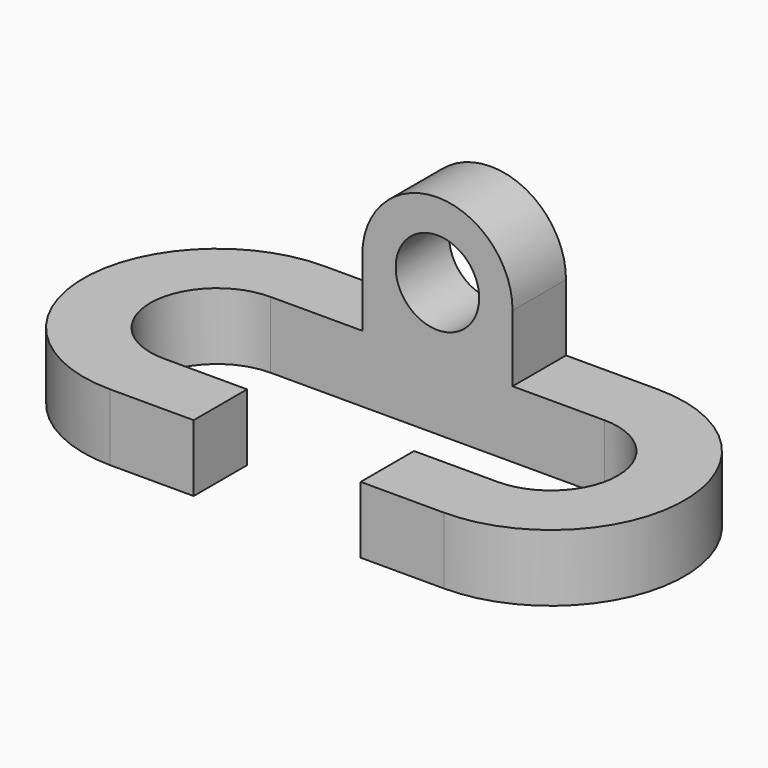
from build123d import *

# Parameters (mm, degrees)
F1_DEPTH = 12.7
F2_R     = 7.9375
F3_DEPTH = 12.7


with BuildPart() as f1:
    # F0 (on Top) → F1 (new body)
    with BuildSketch(Plane.XY):
        with BuildLine():
            ThreePointArc((31.75, 12.7), (44.45, 0), (31.75, -12.7))
            Line((31.75, -12.7), (15.875, -12.7))
            Line((15.875, -12.7), (15.875, -25.4))
            Line((15.875, -25.4), (31.75, -25.4))
            ThreePointArc((31.75, -25.4), (57.15, 0), (31.75, 25.4))
            Line((31.75, 25.4), (0, 25.4))
            Line((0, 25.4), (-31.75, 25.4))
            ThreePointArc((-31.75, 25.4), (-57.15, 0), (-31.75, -25.4))
            Line((-31.75, -25.4), (-15.875, -25.4))
            Line((-15.875, -25.4), (-15.875, -12.7))
            Line((-15.875, -12.7), (-31.75, -12.7))
            ThreePointArc((-31.75, -12.7), (-44.45, 0), (-31.75, 12.7))
            Line((-31.75, 12.7), (0, 12.7))
            Line((0, 12.7), (31.75, 12.7))
        make_face()
    extrude(amount=F1_DEPTH)

    # F2 (on face) → F3 (join)
    with BuildSketch(Plane.XZ.offset(-12.7)):
        with BuildLine():
            Line((14.2875, 12.7), (14.2875, 25.4))
            ThreePointArc((14.2875, 25.4), (0, 39.6875), (-14.2875, 25.4))
            Line((-14.2875, 25.4), (-14.2875, 12.7))
            Line((-14.2875, 12.7), (14.2875, 12.7))
        make_face()
        with Locations((0, 25.4)):
            Circle(F2_R, mode=Mode.SUBTRACT)
    extrude(amount=-F3_DEPTH)


solid = f1.part
